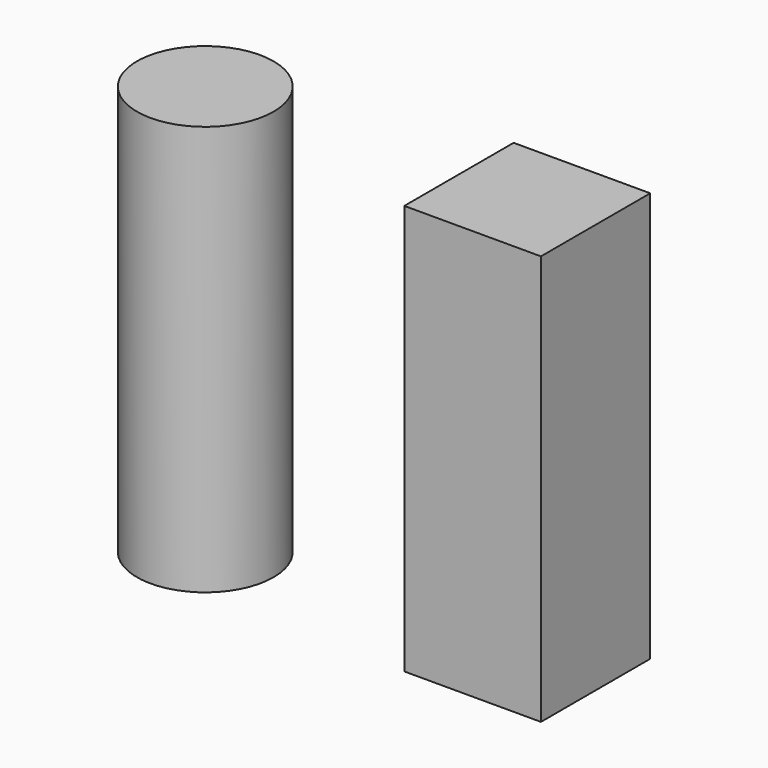
from build123d import *

# Parameters (mm, degrees)
F0_R     = 12.7
F0_W     = 25.4
F0_H     = 25.4
F1_DEPTH = 76.2


with BuildPart() as f1:
    # F0 (on Top) → F1 (new body)
    with BuildSketch(Plane.XY):
        with Locations((-29.025108, 0)):
            Circle(F0_R)
        with Locations((29.694964, 1.433675)):
            Rectangle(F0_W, F0_H)
    extrude(amount=F1_DEPTH)


solid = f1.part
